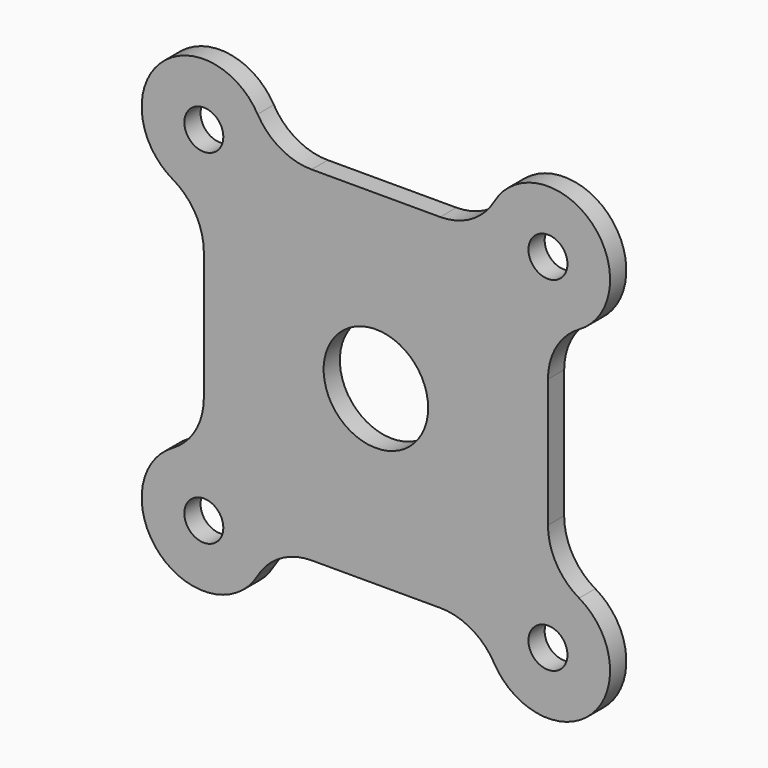
from build123d import *

# Parameters (mm, degrees)
F0_R     = 6.25
F0_R_2   = 16.75
F1_DEPTH = 6.5


with BuildPart() as f1:
    # F0 (on Front) → F1 (new body)
    with BuildSketch(Plane.XZ):
        with BuildLine():
            ThreePointArc((-20.605627, 55.154329), (-30.595612, 57.828043), (-37.914561, 65.134309))
            ThreePointArc((-37.914561, 65.134309), (-69.239953, 69.239953), (-65.134309, 37.914561))
            ThreePointArc((-65.134309, 37.914561), (-57.828043, 30.595612), (-55.154329, 20.605627))
            Line((-55.154329, 20.605627), (-55.154329, 0))
            Line((-55.154329, 0), (-55.154329, -20.605627))
            ThreePointArc((-55.154329, -20.605627), (-57.828043, -30.595612), (-65.134309, -37.914561))
            ThreePointArc((-65.134309, -37.914561), (-69.239953, -69.239953), (-37.914561, -65.134309))
            ThreePointArc((-37.914561, -65.134309), (-30.595612, -57.828043), (-20.605627, -55.154329))
            Line((-20.605627, -55.154329), (0, -55.154329))
            Line((0, -55.154329), (20.605627, -55.154329))
            ThreePointArc((20.605627, -55.154329), (30.595612, -57.828043), (37.914561, -65.134309))
            ThreePointArc((37.914561, -65.134309), (69.239953, -69.239953), (65.134309, -37.914561))
            ThreePointArc((65.134309, -37.914561), (57.828043, -30.595612), (55.154329, -20.605627))
            Line((55.154329, -20.605627), (55.154329, 0))
            Line((55.154329, 0), (55.154329, 20.605627))
            ThreePointArc((55.154329, 20.605627), (57.828043, 30.595612), (65.134309, 37.914561))
            ThreePointArc((65.134309, 37.914561), (69.239953, 69.239953), (37.914561, 65.134309))
            ThreePointArc((37.914561, 65.134309), (30.595612, 57.828043), (20.605627, 55.154329))
            Line((20.605627, 55.154329), (0, 55.154329))
            Line((0, 55.154329), (-20.605627, 55.154329))
        make_face()
        with Locations((-55.154329, -55.154329)):
            Circle(F0_R, mode=Mode.SUBTRACT)
        with Locations((55.154329, -55.154329)):
            Circle(F0_R, mode=Mode.SUBTRACT)
        with Locations((-55.154329, 55.154329)):
            Circle(F0_R, mode=Mode.SUBTRACT)
        Circle(F0_R_2, mode=Mode.SUBTRACT)
        with Locations((55.154329, 55.154329)):
            Circle(F0_R, mode=Mode.SUBTRACT)
    extrude(amount=F1_DEPTH)


solid = f1.part
